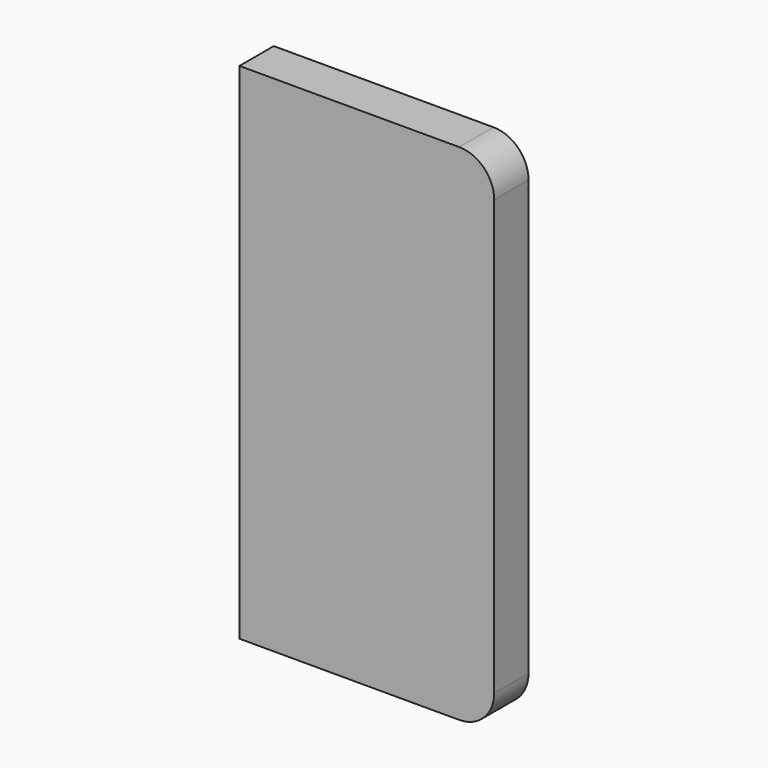
from build123d import *

# Parameters (mm, degrees)
F1_DEPTH = 12.25
F2_W     = 7.5
F2_H     = 3
F3_DEPTH = 5


with BuildPart() as f1:
    # F0 (on Front) → F1 (new body)
    with BuildSketch(Plane.XZ):
        with BuildLine():
            ThreePointArc((72.75, 134), (69.821068, 141.071068), (62.75, 144))
            Line((62.75, 144), (0, 144))
            Line((0, 144), (0, 0))
            Line((0, 0), (62.75, 0))
            ThreePointArc((62.75, 0), (69.821068, 2.928932), (72.75, 10))
            Line((72.75, 10), (72.75, 134))
        make_face()
    extrude(amount=F1_DEPTH)

    # F2 (on face) → F3 (cut)
    with BuildSketch(Plane(origin=(0, 0, 0), x_dir=(1, 0, 0), z_dir=(0, 0, -1))):
        with Locations((36.375, 6.125)):
            Rectangle(F2_W, F2_H)
    extrude(amount=-F3_DEPTH, mode=Mode.SUBTRACT)


solid = f1.part
